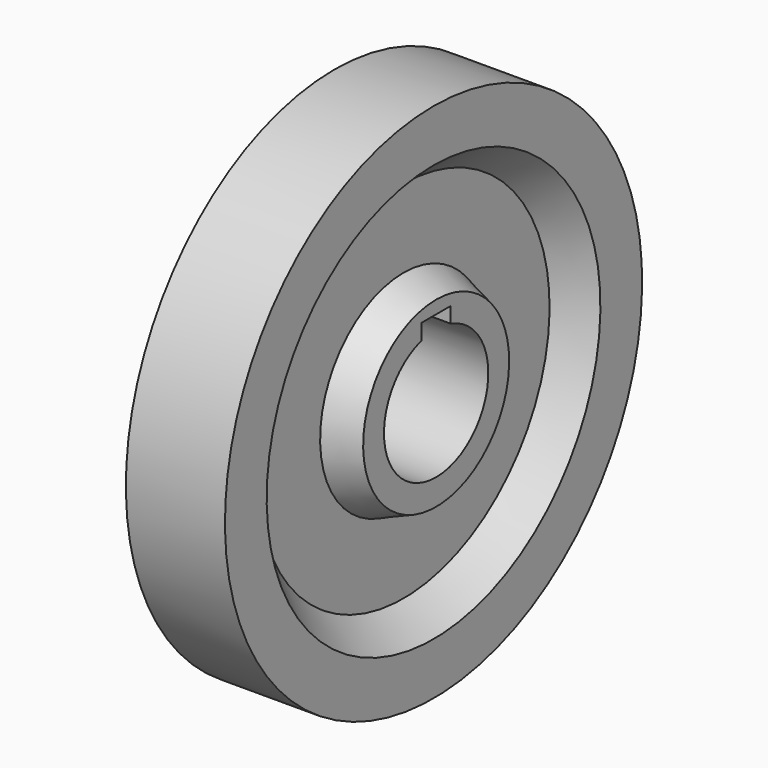
from build123d import *

# Parameters (mm, degrees)
F3_DEPTH = 40.001


with BuildPart() as f1:
    # F0 (on Front) → F1 (revolve)
    with BuildSketch(Plane.XZ):
        Polygon((-20, 25), (0, 25), (20, 25), (20, 35), (7.5, 40), (7.5, 70), (19, 80), (19, 100), (0, 100), (-19, 100), (-19, 80), (-7.5, 70), (-7.5, 40), (-20, 35), align=None)
    revolve(axis=Axis((21.959458, 0, 0), (1, 0, 0)))

    # F2 (on face) → F3 (cut, through all)
    with BuildSketch(Plane.YZ.offset(20)):
        with BuildLine():
            Line((7, 24), (7, 30))
            Line((7, 30), (-7, 30))
            Line((-7, 30), (-7, 24))
            ThreePointArc((-7, 24), (0, 25), (7, 24))
        make_face()
    extrude(amount=-F3_DEPTH, mode=Mode.SUBTRACT)


solid = f1.part
